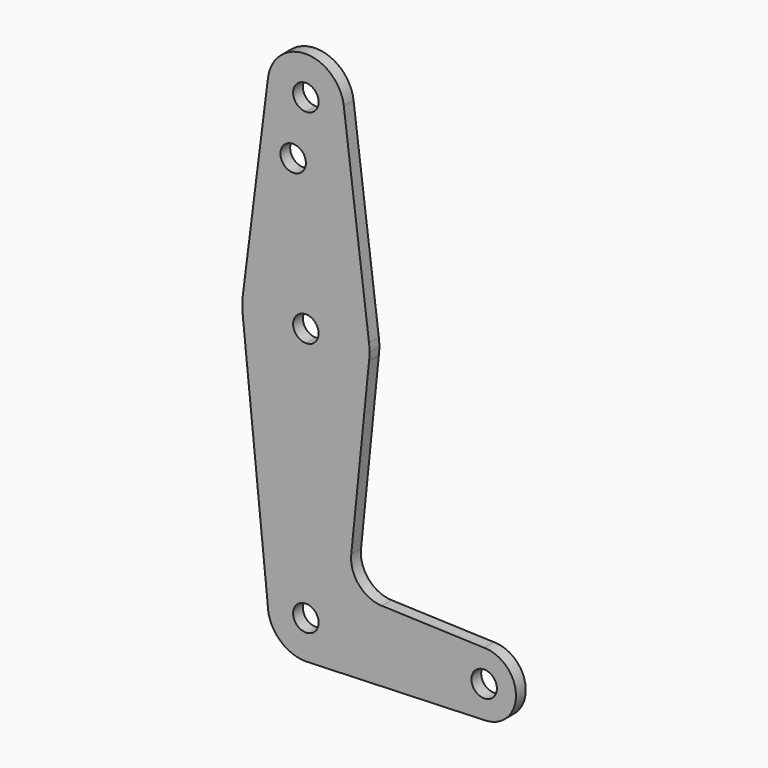
from build123d import *

# Parameters (mm, degrees)
F0_R     = 3.175
F1_DEPTH = 3.048


with BuildPart() as f1:
    # F0 (on Front) → F1 (new body)
    with BuildSketch(Plane.XZ):
        with BuildLine():
            ThreePointArc((-9.4502929642, 115.490625), (-7.14375, 107.9998046905), (0, 104.775))
            ThreePointArc((0, 104.775), (6.7351920908, 107.5648079092), (9.525, 114.3))
            ThreePointArc((9.525, 114.3), (9.5063048942, 114.896483242), (9.4502929642, 115.490625))
            ThreePointArc((9.4502929642, 115.490625), (0, 123.825), (-9.4502929642, 115.490625))
        make_face()
        with BuildLine():
            ThreePointArc((3.175, 114.3), (2.2450640303, 112.0549359697), (0, 111.125))
            ThreePointArc((0, 111.125), (-2.2450640303, 116.5450640303), (3.175, 114.3))
        make_face(mode=Mode.SUBTRACT)
        with BuildLine():
            ThreePointArc((9.525, 114.3), (6.7351920908, 107.5648079092), (0, 104.775))
            Line((0, 104.775), (0, 99.886942851))
            Line((0, 99.886942851), (0, 79.375))
            ThreePointArc((0, 79.375), (10.5003255158, 75.40625), (15.7504882737, 65.484375))
            Line((15.7504882737, 65.484375), (9.4502929642, 115.490625))
            ThreePointArc((9.4502929642, 115.490625), (9.5063048942, 114.896483242), (9.525, 114.3))
        make_face()
        with BuildLine():
            Line((0, 99.886942851), (0, 104.775))
            ThreePointArc((0, 104.775), (-7.14375, 107.9998046905), (-9.4502929642, 115.490625))
            Line((-9.4502929642, 115.490625), (-15.7504882737, 65.484375))
            ThreePointArc((-15.7504882737, 65.484375), (-10.5003255158, 75.40625), (0, 79.375))
            Line((0, 79.375), (0, 99.886942851))
        make_face()
        with Locations((-3.175, 99.886942851)):
            Circle(F0_R, mode=Mode.SUBTRACT)
        with BuildLine():
            ThreePointArc((15.7504882737, 65.484375), (10.5003255158, 75.40625), (0, 79.375))
            Line((0, 79.375), (0, 66.675))
            ThreePointArc((0, 66.675), (2.2450640303, 65.7450640303), (3.175, 63.5))
            ThreePointArc((3.175, 63.5), (2.2450640303, 61.2549359697), (0, 60.325))
            Line((0, 60.325), (0, 47.625))
            ThreePointArc((0, 47.625), (10.5003255158, 51.59375), (15.7504882737, 61.515625))
            ThreePointArc((15.7504882737, 61.515625), (15.8438414904, 62.5058612634), (15.875, 63.5))
            ThreePointArc((15.875, 63.5), (15.8438414904, 64.4941387366), (15.7504882737, 65.484375))
        make_face()
        with BuildLine():
            Line((0, 66.675), (0, 79.375))
            ThreePointArc((0, 79.375), (-10.5003255158, 75.40625), (-15.7504882737, 65.484375))
            ThreePointArc((-15.7504882737, 65.484375), (-15.875, 63.5), (-15.7504882737, 61.515625))
            ThreePointArc((-15.7504882737, 61.515625), (-10.5003255158, 51.59375), (0, 47.625))
            Line((0, 47.625), (0, 60.325))
            ThreePointArc((0, 60.325), (-3.175, 63.5), (0, 66.675))
        make_face()
        with BuildLine():
            ThreePointArc((0, 47.625), (-10.5003255158, 51.59375), (-15.7504882737, 61.515625))
            Line((-15.7504882737, 61.515625), (-9.525, 0))
            ThreePointArc((-9.525, 0), (-6.7351920908, 6.7351920908), (0, 9.525))
            Line((0, 9.525), (0, 47.625))
        make_face()
        with BuildLine():
            ThreePointArc((15.7504882737, 61.515625), (10.5003255158, 51.59375), (0, 47.625))
            Line((0, 47.625), (0, 9.525))
            ThreePointArc((0, 9.525), (6.7351920908, 6.7351920908), (9.525, 0))
            Line((9.525, 0), (36.5125, 0))
            ThreePointArc((36.5125, 0), (38.8373399243, 5.6126600757), (44.45, 7.9375))
            Line((44.45, 7.9375), (18.9316361249, 8.8488701384))
            ThreePointArc((18.9316361249, 8.8488701384), (13.2233092084, 11.5690035861), (11.305593, 17.5944900149))
            Line((11.305593, 17.5944900149), (15.7504882737, 61.515625))
        make_face()
        with BuildLine():
            ThreePointArc((0, 9.525), (-6.7351920908, 6.7351920908), (-9.525, 0))
            ThreePointArc((-9.525, 0), (-6.7351920908, -6.7351920908), (0, -9.525))
            Line((0, -9.525), (0.6773435479, -9.500885786))
            ThreePointArc((0.6773435479, -9.500885786), (6.9705567315, -6.4912990883), (9.525, 0))
            Line((9.525, 0), (3.175, 0))
            ThreePointArc((3.175, 0), (-2.2450640303, -2.2450640303), (0, 3.175))
            Line((0, 3.175), (0, 9.525))
        make_face()
        with BuildLine():
            Line((0.6773435479, -9.500885786), (0, -9.525))
            ThreePointArc((0, -9.525), (0.3388863295, -9.5189695375), (0.6773435479, -9.500885786))
        make_face()
        with BuildLine():
            Line((36.5125, 0), (9.525, 0))
            ThreePointArc((9.525, 0), (6.9705567315, -6.4912990883), (0.6773435479, -9.500885786))
            Line((0.6773435479, -9.500885786), (44.7324052746, -7.9324746146))
            ThreePointArc((44.7324052746, -7.9324746146), (38.9380895153, -5.7116327839), (36.5125, 0))
        make_face()
        with BuildLine():
            ThreePointArc((44.45, 7.9375), (38.8373399243, 5.6126600757), (36.5125, 0))
            ThreePointArc((36.5125, 0), (38.9380895153, -5.7116327839), (44.7324052746, -7.9324746146))
            ThreePointArc((44.7324052746, -7.9324746146), (50.1616327839, -5.5119104847), (52.3875, 0))
            ThreePointArc((52.3875, 0), (50.0626600757, 5.6126600757), (44.45, 7.9375))
        make_face()
        with BuildLine():
            ThreePointArc((47.625, 0), (44.45, -3.175), (41.275, 0))
            ThreePointArc((41.275, 0), (44.45, 3.175), (47.625, 0))
        make_face(mode=Mode.SUBTRACT)
        with BuildLine():
            ThreePointArc((9.525, 0), (6.7351920908, 6.7351920908), (0, 9.525))
            Line((0, 9.525), (0, 3.175))
            ThreePointArc((0, 3.175), (2.2450640303, 2.2450640303), (3.175, 0))
            Line((3.175, 0), (9.525, 0))
        make_face()
    extrude(amount=F1_DEPTH)


solid = f1.part
